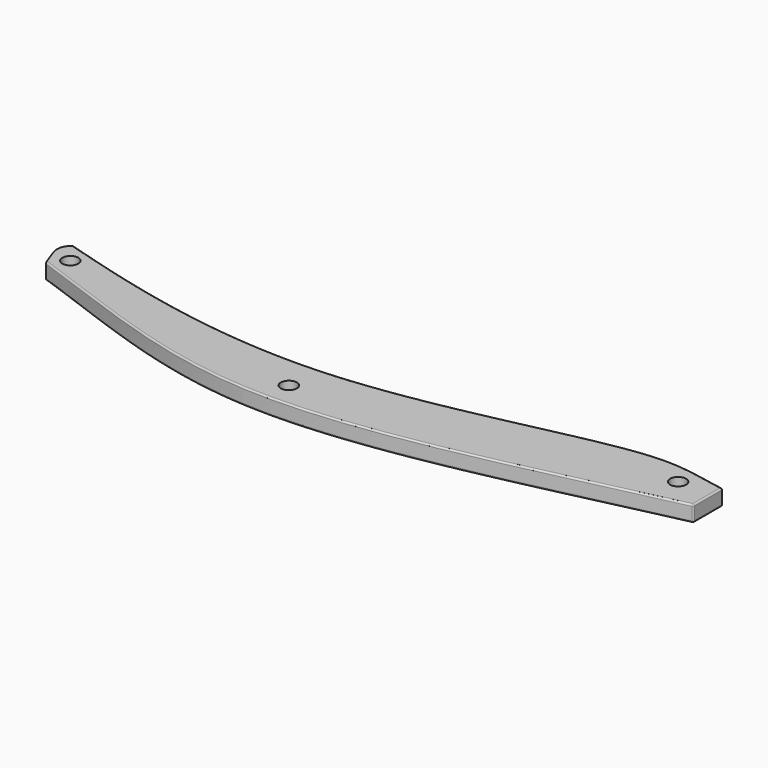
from build123d import *

# Parameters (mm, degrees)
F1_DEPTH = 2
F2_R     = 0.2
F3_R     = 1
F4_DEPTH = 25


with BuildPart() as f1:
    # F0 (on Top) → F1 (new body)
    with BuildSketch(Plane.XY):
        with BuildLine():
            add(Edge.make_bspline(
                [(-23.4499994786, 10.1196156968), (-12.6840422085, 6.8794836235), (11.4659695917, 0.7743012779), (47.6376526818, 12.5703054123), (54.293501113, 10.2015469925), (57.5500005214, 9.6985708068)],
                knots=[0, 0, 0, 0, 0.4000877965, 0.7950947671, 1, 1, 1, 1], degree=3))
            ThreePointArc((-23.4499994786, 10.1196156968), (-24.2346111204, 9.1477134118), (-24.2294017226, 7.8986408189))
            Line((-24.2294017226, 7.8986408189), (-23.4499994786, 5.7355819738))
            add(Edge.make_bspline(
                [(-23.4499994786, 5.7355819738), (-13.6171771119, 2.3390075956), (8.227052883, -7.6692778938), (39.9984931729, 1.3187098271), (57.5500005214, 5.160813538)],
                knots=[0, 0, 0, 0, 0.4449402587, 1, 1, 1, 1], degree=3))
            Line((57.5500005214, 5.160813538), (57.5500005214, 9.6985708068))
        make_face()
    extrude(amount=F1_DEPTH)

    # F2
    f2_edges = [f1.edges().sort_by_distance(p)[0] for p in [
        (16.801249, -2.683938, 0),
        (-23.839701, 6.817111, 0),
        (-24.234611, 9.147713, 0),
        (-23.449999, 10.119616, 1),
        (17.043425, 5.047028, 0),
        (17.043425, 5.047028, 2),
        (57.550001, 7.429692, 0),
        (57.550001, 7.429692, 2),
        (16.801249, -2.683938, 2),
        (57.550001, 5.160814, 1),
        (57.550001, 9.698571, 1),
    ]]
    fillet(f2_edges, radius=F2_R)

    # F3 (on face) → F4 (cut)
    with BuildSketch(Plane.XY.offset(2)):
        with Locations((-21.8064635992, 7.4584367685)):
            Circle(F3_R)
        with Locations((53.351432085, 8.0309696496)):
            Circle(F3_R)
        with Locations((11.1594959978, 0.2275792018)):
            Circle(F3_R)
    extrude(amount=-F4_DEPTH, mode=Mode.SUBTRACT)


solid = f1.part
